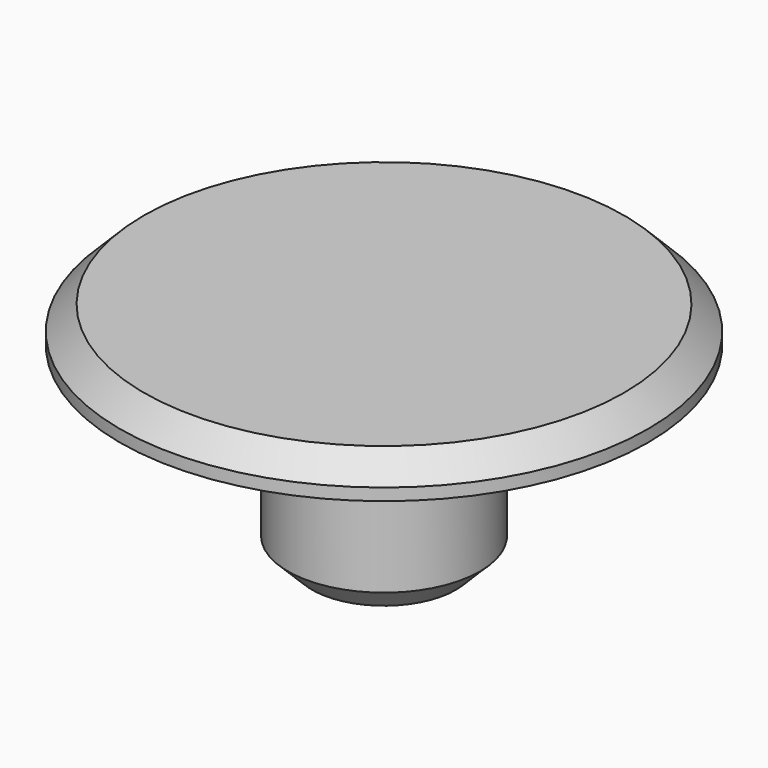
from build123d import *

# Parameters (mm, degrees)
F0_R     = 4
F1_DEPTH = 7
F2_R     = 5.5
F2_R_2   = 4
F3_DEPTH = 1
F4_R     = 11
F5_DEPTH = 1.5
F6_R     = 2
F7_DEPTH = 5
F8_SIZE  = 1
F9_SIZE  = 1


with BuildPart() as f1:
    # F0 (on Top) → F1 (new body)
    with BuildSketch(Plane.XY):
        Circle(F0_R)
    extrude(amount=F1_DEPTH)

    # F2 (on face) → F3 (join)
    with BuildSketch(Plane.XY.offset(7)):
        Circle(F2_R)
        Circle(F2_R_2, mode=Mode.SUBTRACT)
        Circle(F2_R_2)
    extrude(amount=F3_DEPTH)

    # F4 (on face) → F5 (join)
    with BuildSketch(Plane.XY.offset(8)):
        Circle(F4_R)
    extrude(amount=F5_DEPTH)

    # F6 (on face) → F7 (cut)
    with BuildSketch(Plane(origin=(0, 0, 0), x_dir=(1, 0, 0), z_dir=(0, 0, -1))):
        Circle(F6_R)
    extrude(amount=-F7_DEPTH, mode=Mode.SUBTRACT)

    # F8
    f8_edges = [f1.edges().sort_by_distance(p)[0] for p in [
        (-4, 0, 0),
    ]]
    chamfer(f8_edges, length=F8_SIZE)

    # F9
    f9_edges = [f1.edges().sort_by_distance(p)[0] for p in [
        (-11, 0, 9.5),
    ]]
    chamfer(f9_edges, length=F9_SIZE)


solid = f1.part
